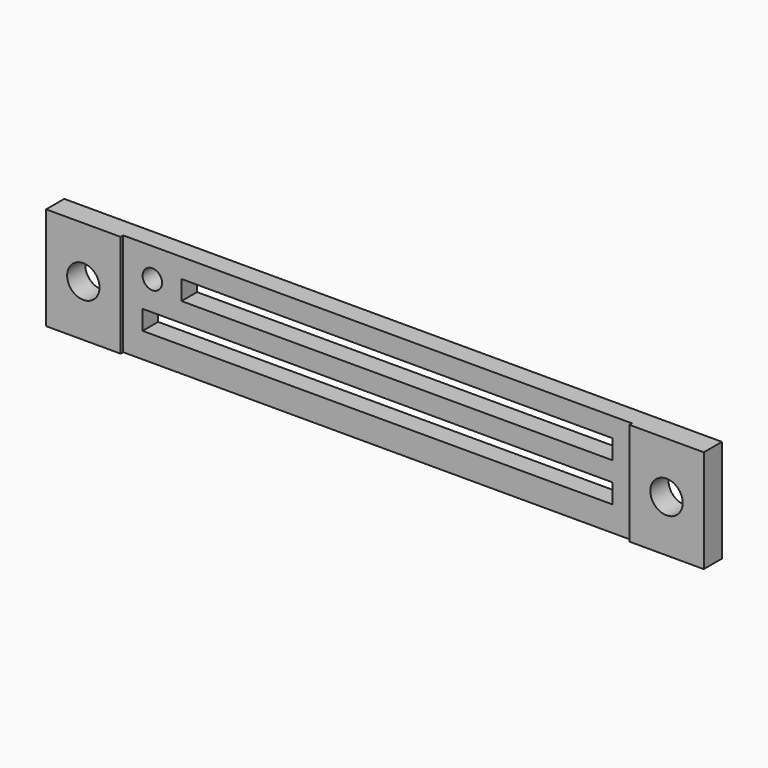
from build123d import *

# Parameters (mm, degrees)
F0_W     = 101.5
F0_H     = 15.875
F0_W_2   = 72.5
F0_H_2   = 3
F0_R     = 2.5
F0_R_2   = 1.5
F0_W_3   = 66.5
F1_DEPTH = 3.5
F2_W     = 78.5
F2_H     = 15.875
F3_DEPTH = 0.5


with BuildPart() as f1:
    # F0 (on Front) → F1 (new body)
    with BuildSketch(Plane.XZ):
        Rectangle(F0_W, F0_H)
        with Locations((0, -2.5625)):
            Rectangle(F0_W_2, F0_H_2, mode=Mode.SUBTRACT)
        with Locations((-45, 0)):
            Circle(F0_R, mode=Mode.SUBTRACT)
        with Locations((-34.75, 3.4375)):
            Circle(F0_R_2, mode=Mode.SUBTRACT)
        with Locations((3, 3.4375)):
            Rectangle(F0_W_3, F0_H_2, mode=Mode.SUBTRACT)
        with Locations((45, 0)):
            Circle(F0_R, mode=Mode.SUBTRACT)
    extrude(amount=F1_DEPTH)

    # F2 (on face) → F3 (cut)
    with BuildSketch(Plane.XZ.offset(3.5)):
        Rectangle(F2_W, F2_H)
    extrude(amount=-F3_DEPTH, mode=Mode.SUBTRACT)


solid = f1.part
